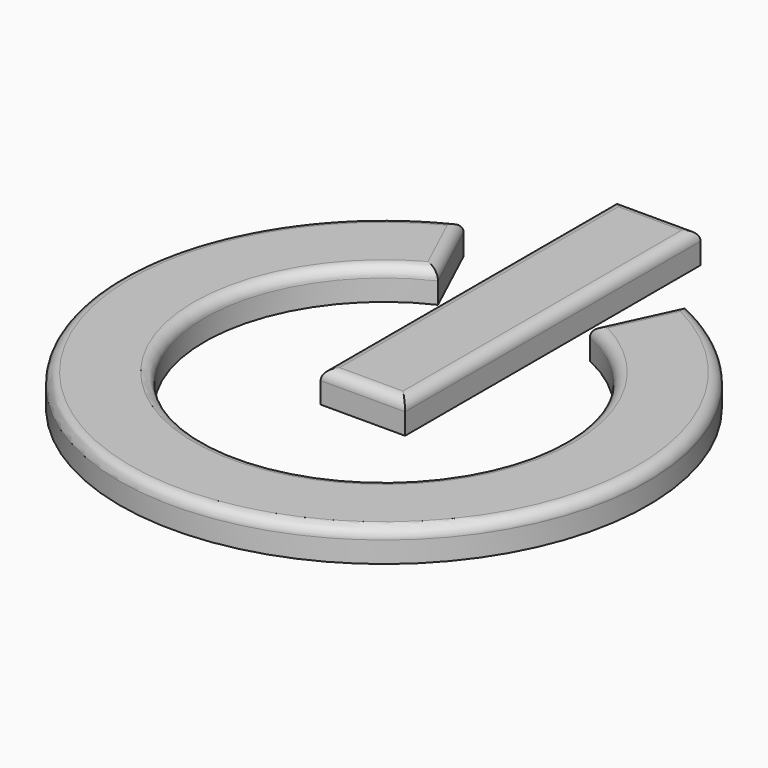
from build123d import *

# Parameters (mm, degrees)
PAD012_DEPTH = 0.6
SKETCH021_W  = 1.6
SKETCH021_H  = 7
PAD013_DEPTH = 0.6
FILLET007_R  = 0.2


with BuildPart() as obj1_ring:
    # Sketch019 → Pad012 (new body)
    with BuildSketch(Plane.XY):
        with BuildLine():
            Line((-0.56, 3.08), (0.116189, 4.530093))
            ThreePointArc((-4.116189, 4.530093), (-2, -5), (0.116189, 4.530093))
            Line((-3.44, 3.08), (-4.116189, 4.530093))
            ThreePointArc((-3.44, 3.08), (-2, -3.4), (-0.56, 3.08))
        make_face()
    extrude(amount=PAD012_DEPTH)


with BuildPart() as obj1_ring_1:
    # Body014 placement: moved
    add(obj1_ring.part.moved(Location((2, 0, 2))))


with BuildPart() as obj1:
    # Sketch021 → Pad013 (new body)
    with BuildSketch(Plane.XY.offset(2)):
        with Locations((0, 3)):
            Rectangle(SKETCH021_W, SKETCH021_H)
    extrude(amount=PAD013_DEPTH)

    # Fusion005: union obj1_ring
    add(obj1_ring_1.part)

    # Fillet007
    fillet007_edges = [obj1.edges().sort_by_distance(p)[0] for p in [
        (0, 6.5, 2.6),
        (0.8, 3, 2.6),
        (0, -0.5, 2.6),
        (-0.8, 3, 2.6),
        (0, -3.4, 2.6),
        (1.778095, 3.805046, 2.6),
        (0, -5, 2.6),
        (-1.778095, 3.805046, 2.6),
    ]]
    fillet(fillet007_edges, radius=FILLET007_R)


solid = obj1.part
